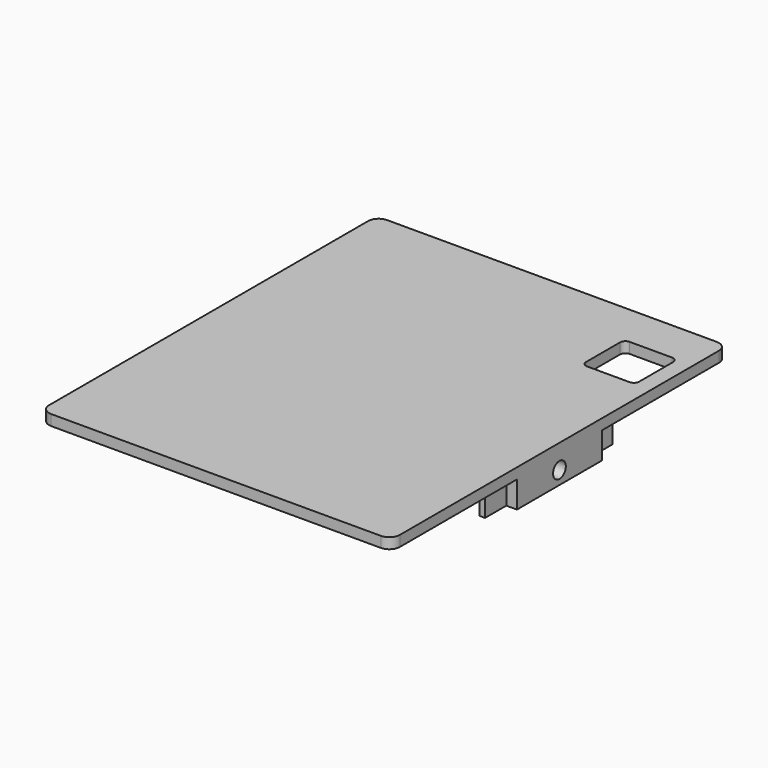
from build123d import *

# Parameters (mm, degrees)
BOX_W                  = 66
BOX_H                  = 79
BOX_DEPTH              = 2
FILLET_R               = 2
BOX001_W               = 10
BOX001_H               = 10
BOX001_DEPTH           = 2
FILLET001_R            = 1
BOX002_W               = 2
BOX002_H               = 20
BOX002_DEPTH           = 5
LINEARPATTERN_COUNT    = 2
LINEARPATTERN_PITCH    = 64
BOX003_W               = 1
BOX003_H               = 30
BOX003_DEPTH           = 5
LINEARPATTERN001_COUNT = 2
LINEARPATTERN001_PITCH = 61
CYLINDER_R             = 1.5
CYLINDER_DEPTH         = 3
LINEARPATTERN002_COUNT = 2
LINEARPATTERN002_PITCH = 63


with BuildPart() as part:
    # Box → Box (join)
    with BuildSketch(Plane.XY):
        with Locations((33, 39.5)):
            Rectangle(BOX_W, BOX_H)
    extrude(amount=BOX_DEPTH)

    # Fillet
    fillet_edges = [part.edges().sort_by_distance(p)[0] for p in [
        (0, 0, 1),
        (66, 0, 1),
        (66, 79, 1),
        (0, 79, 1),
    ]]
    fillet(fillet_edges, radius=FILLET_R)

    # Box001 → Box001 (cut)
    with BuildSketch(Plane(origin=(53, 61, 0), x_dir=(1, 0, 0), z_dir=(0, 0, 1))):
        with Locations((5, 5)):
            Rectangle(BOX001_W, BOX001_H)
    extrude(amount=BOX001_DEPTH, mode=Mode.SUBTRACT)

    # Fillet001
    fillet001_edges = [part.edges().sort_by_distance(p)[0] for p in [
        (53, 71, 1),
        (63, 71, 1),
        (53, 61, 1),
        (63, 61, 1),
    ]]
    fillet(fillet001_edges, radius=FILLET001_R)

    # Box002 → Box002 (join)
    with BuildSketch(Plane(origin=(64, 49.5, 0), x_dir=(1, 0, 0), z_dir=(0, 0, -1))):
        with Locations((1, 10)):
            Rectangle(BOX002_W, BOX002_H)
    box002 = extrude(amount=BOX002_DEPTH)

    # LinearPattern: Box002 ×2
    with Locations(*[(-i * LINEARPATTERN_PITCH, 0, 0) for i in range(1, LINEARPATTERN_COUNT)]):
        add(box002)

    # Box003 → Box003 (join)
    with BuildSketch(Plane(origin=(63, 54.5, 0), x_dir=(1, 0, 0), z_dir=(0, 0, -1))):
        with Locations((0.5, 15)):
            Rectangle(BOX003_W, BOX003_H)
    box003 = extrude(amount=BOX003_DEPTH)

    # LinearPattern001: Box003 ×2
    with Locations(*[(-i * LINEARPATTERN001_PITCH, 0, 0) for i in range(1, LINEARPATTERN001_COUNT)]):
        add(box003)

    # Cylinder → Cylinder (cut)
    with BuildSketch(Plane(origin=(63, 39.5, -2.5), x_dir=(0, -1, 0), z_dir=(1, 0, 0))):
        Circle(CYLINDER_R)
    cylinder = extrude(amount=CYLINDER_DEPTH, mode=Mode.SUBTRACT)

    # LinearPattern002: Cylinder ×2
    with Locations(*[(-i * LINEARPATTERN002_PITCH, 0, 0) for i in range(1, LINEARPATTERN002_COUNT)]):
        add(cylinder, mode=Mode.SUBTRACT)


solid = part.part
